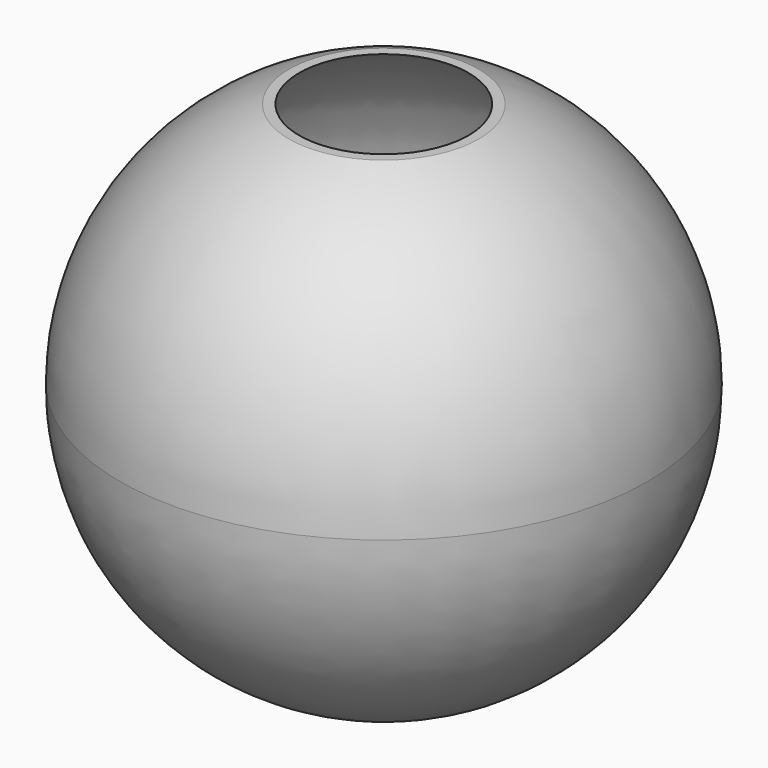
from build123d import *

# Parameters (mm, degrees)
F3_W     = 33.02
F3_H     = 33.02
F4_DEPTH = 25.4
F5_T     = -0.5


with BuildPart() as f1:
    # F0 (on Front) → F1 (revolve)
    with BuildSketch(Plane.XZ):
        with BuildLine():
            ThreePointArc((0, -38.1), (26.940768, -26.940768), (38.1, 0))
            ThreePointArc((38.1, 0), (26.940768, 26.940768), (0, 38.1))
            Line((0, 38.1), (0, -38.1))
        make_face()
    revolve(axis=Axis((0, 0, 0), (0, 0, -1)))

    # F3 (on offset) → F4 (cut)
    with BuildSketch(Plane.XY.offset(35.56)):
        Rectangle(F3_W, F3_H)
    extrude(amount=F4_DEPTH, mode=Mode.SUBTRACT)

    # F5
    f5_openings = [f1.faces().sort_by_distance(p)[0] for p in [
        (0, 0, 35.56),
    ]]
    offset(amount=F5_T, openings=f5_openings)


solid = f1.part
